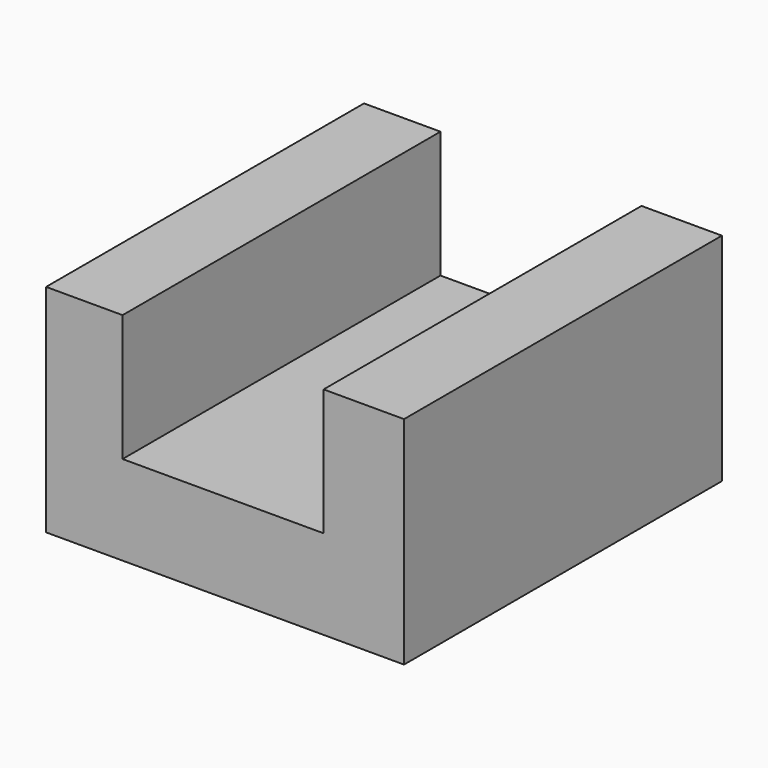
from build123d import *

# Parameters (mm, degrees)
F1_DEPTH      = 50
F1_DEPTH_BACK = 50


with BuildPart() as f1:
    # F0 (on Front) → F1 (new body, two sides)
    with BuildSketch(Plane.XZ) as f1_sk:
        Polygon((-30.230358, 19.748479), (-49.477875, 19.748479), (-49.477875, -34.639046), (40.602416, -34.639046), (40.602416, 19.748479), (20.360541, 19.748479), (20.360541, -12.129582), (-30.230358, -12.129582), align=None)
    extrude(amount=F1_DEPTH)
    extrude(f1_sk.sketch, amount=-F1_DEPTH_BACK)


solid = f1.part
